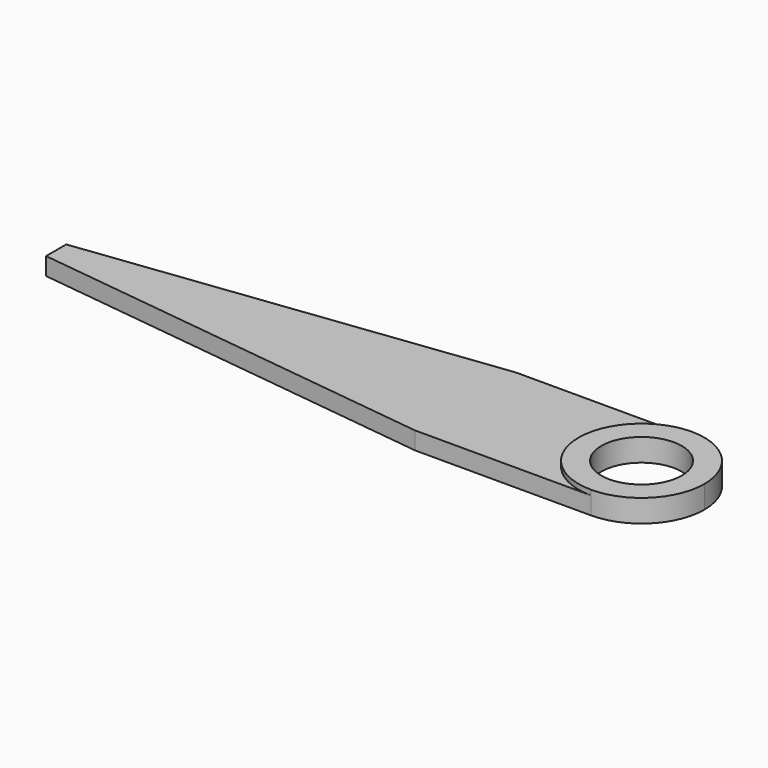
from build123d import *

# Parameters (mm, degrees)
F0_R     = 8
F1_DEPTH = 3.5
F2_R     = 8
F3_DEPTH = 1


with BuildPart() as f1:
    # F0 (on Top) → F1 (new body)
    with BuildSketch(Plane.XY):
        with BuildLine():
            ThreePointArc((0, -12.5), (8.838835, -8.838835), (12.5, 0))
            ThreePointArc((12.5, 0), (8.838835, 8.838835), (0, 12.5))
            ThreePointArc((0, 12.5), (-12.5, 0), (0, -12.5))
        make_face()
        Circle(F0_R, mode=Mode.SUBTRACT)
        with BuildLine():
            ThreePointArc((0, -12.5), (-12.5, 0), (0, 12.5))
            Line((0, 12.5), (-35, 12.5))
            Line((-35, 12.5), (-116.388784, 2.506714))
            Line((-116.388784, 2.506714), (-116.388784, -2.506714))
            Line((-116.388784, -2.506714), (-35, -12.5))
            Line((-35, -12.5), (0, -12.5))
        make_face()
    extrude(amount=F1_DEPTH)

    # F2 (on face) → F3 (join)
    with BuildSketch(Plane.XY.offset(3.5)):
        with BuildLine():
            ThreePointArc((0, -12.5), (8.838835, -8.838835), (12.5, 0))
            ThreePointArc((12.5, 0), (8.838835, 8.838835), (0, 12.5))
            ThreePointArc((0, 12.5), (-12.5, 0), (0, -12.5))
        make_face()
        Circle(F2_R, mode=Mode.SUBTRACT)
    extrude(amount=F3_DEPTH)


solid = f1.part
